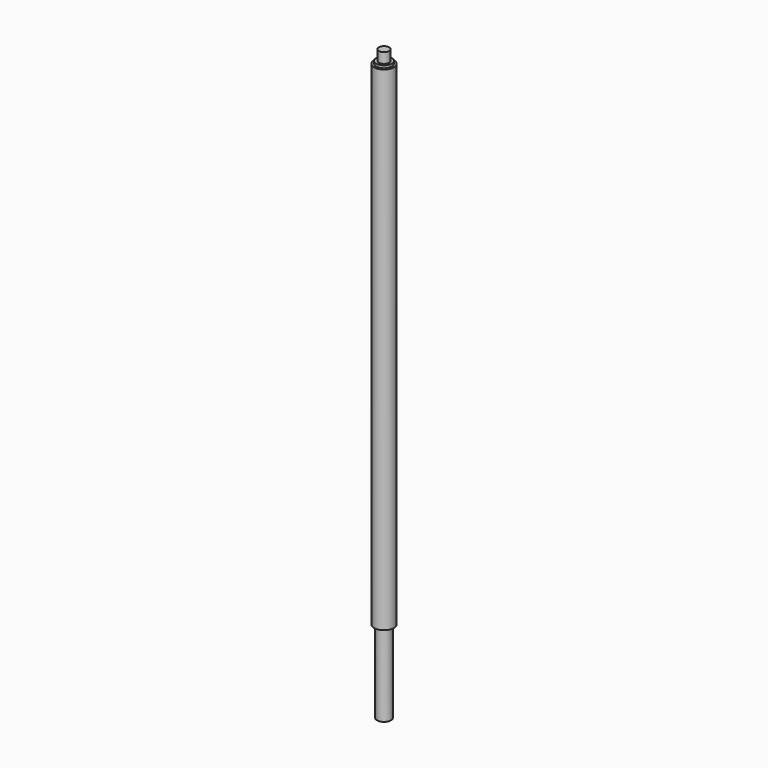
from build123d import *

# Parameters (mm, degrees)
F0_R     = 3.048
F1_DEPTH = 152.4
F2_R     = 2.38125
F3_DEPTH = 0.79375
F4_R     = 1.5875
F5_DEPTH = 3.175
F7_DEPTH = 25.4


with BuildPart() as f1:
    # F0 (on Top) → F1 (new body)
    with BuildSketch(Plane.XY):
        Circle(F0_R)
    extrude(amount=F1_DEPTH)

    # F2 (on face) → F3 (join)
    with BuildSketch(Plane.XY.offset(152.4)):
        Circle(F2_R)
    extrude(amount=F3_DEPTH)

    # F4 (on face) → F5 (join)
    with BuildSketch(Plane.XY.offset(153.19375)):
        Circle(F4_R)
    extrude(amount=F5_DEPTH)

    # F6 (on face) → F7 (join)
    with BuildSketch(Plane(origin=(0, 0, 0), x_dir=(1, 0, 0), z_dir=(0, 0, -1))):
        with BuildLine():
            Line((-1.245454, -1.755775), (1.245454, -1.755775))
            ThreePointArc((1.245454, -1.755775), (0, 2.15265), (-1.245454, -1.755775))
        make_face()
    extrude(amount=F7_DEPTH)


solid = f1.part
